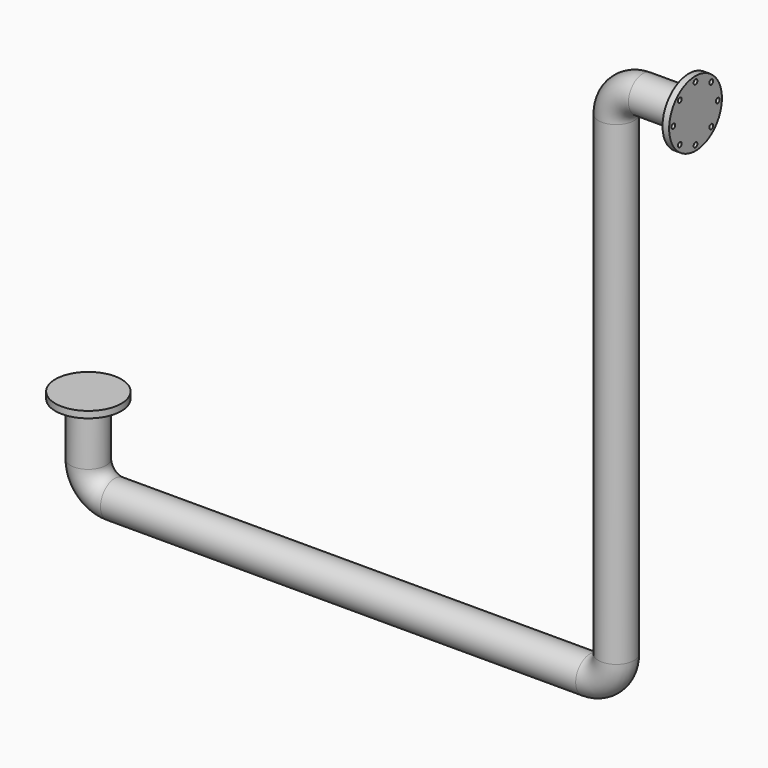
from build123d import *

# Parameters (mm, degrees)
F1_R      = 67.5
F1_R_2    = 125
F2_FACE_R = 67.5
F3_DEPTH  = 25
F4_R      = 125
F4_R_2    = 9
F4_R_3    = 67.5
F5_DEPTH  = 25


with BuildPart() as f2:
    # F2: sweep along a path in F0
    with BuildLine(Plane.XZ) as f2_path:
        Line((0, 0), (0, -200))
        ThreePointArc((0, -200), (29.2893218813, -270.7106781187), (100, -300))
        Line((100, -300), (1900, -300))
        ThreePointArc((1900, -300), (1970.7106781187, -270.7106781187), (2000, -200))
        Line((2000, -200), (2000, 1600))
        ThreePointArc((2000, 1600), (2029.2893218813, 1670.7106781187), (2100, 1700))
        Line((2100, 1700), (2300, 1700))
    # F1 (on Top) → F2 (sweep)
    with BuildSketch(Plane.XY):
        Circle(F1_R)
    sweep(path=f2_path.line)

    # F1 (on Top) + F2_face (on face) → F3 (join)
    with BuildSketch(Plane.XY):
        Circle(F1_R_2)
        Circle(F1_R, mode=Mode.SUBTRACT)
    with BuildSketch(Plane.XY):
        Circle(F2_FACE_R)
    extrude(amount=F3_DEPTH)

    # F4 (on face) → F5 (join)
    with BuildSketch(Plane.YZ.offset(2300)):
        with Locations((0, 1700)):
            Circle(F4_R)
        with Locations((-74.2462120246, 1625.7537879754)):
            Circle(F4_R_2, mode=Mode.SUBTRACT)
        with Locations((0, 1595)):
            Circle(F4_R_2, mode=Mode.SUBTRACT)
        with Locations((74.2462120246, 1625.7537879754)):
            Circle(F4_R_2, mode=Mode.SUBTRACT)
        with Locations((-105, 1700)):
            Circle(F4_R_2, mode=Mode.SUBTRACT)
        with Locations((-74.2462120246, 1774.2462120246)):
            Circle(F4_R_2, mode=Mode.SUBTRACT)
        with Locations((0, 1700)):
            Circle(F4_R_3, mode=Mode.SUBTRACT)
        with Locations((105, 1700)):
            Circle(F4_R_2, mode=Mode.SUBTRACT)
        with Locations((0, 1805)):
            Circle(F4_R_2, mode=Mode.SUBTRACT)
        with Locations((74.2462120246, 1774.2462120246)):
            Circle(F4_R_2, mode=Mode.SUBTRACT)
    extrude(amount=-F5_DEPTH)


solid = f2.part
